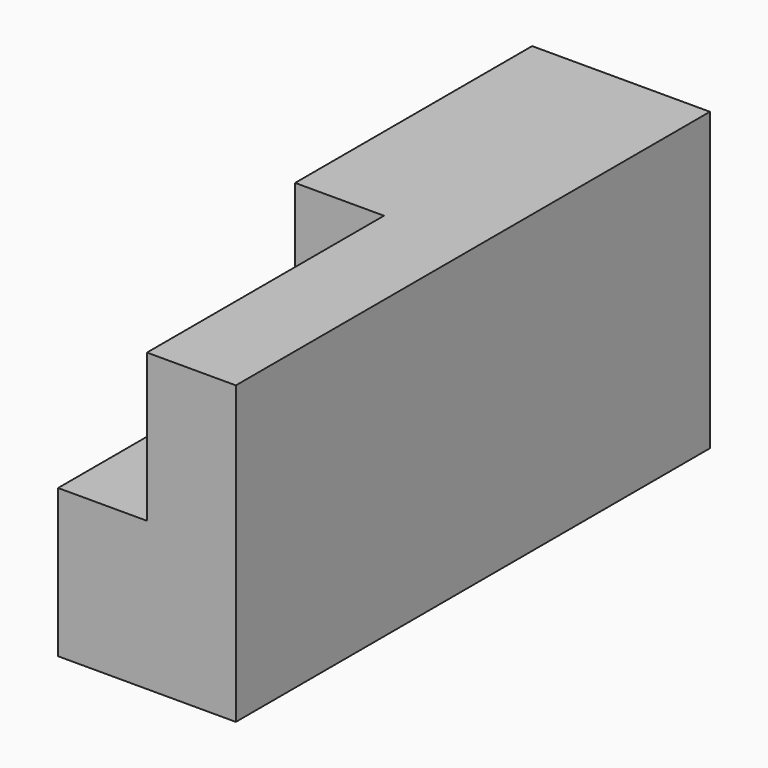
from build123d import *

# Parameters (mm, degrees)
F1_DEPTH = 63.5
F0_W     = 19.05
F0_H     = 63.5
F2_DEPTH = 31.75


with BuildPart() as f1:
    # F0 (on Top) → F1 (new body)
    with BuildSketch(Plane.XY):
        Polygon((38.1, 76.759861), (0, 76.759861), (0, 13.259861), (19.05, 13.259861), (19.05, -50.240139), (38.1, -50.240139), align=None)
    extrude(amount=F1_DEPTH)

    # F0 (on Top) → F2 (join)
    with BuildSketch(Plane.XY):
        Polygon((38.1, 76.759861), (0, 76.759861), (0, 13.259861), (19.05, 13.259861), (19.05, -50.240139), (38.1, -50.240139), align=None)
        with Locations((9.525, -18.490139)):
            Rectangle(F0_W, F0_H)
    extrude(amount=F2_DEPTH)


solid = f1.part
